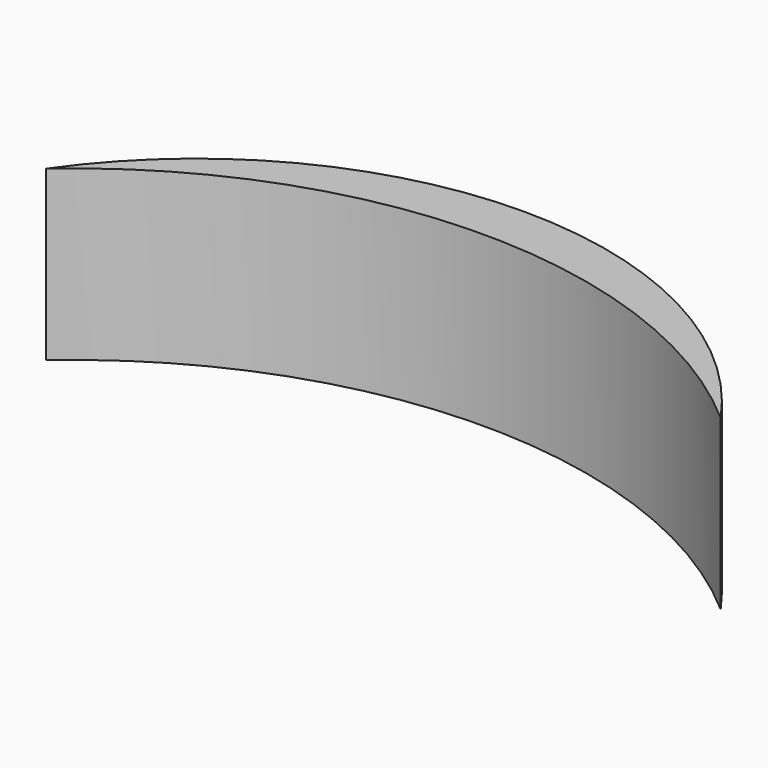
from build123d import *

# Parameters (mm, degrees)
F1_DEPTH = 38.1


with BuildPart() as f1:
    # F0 (on Top) → F1 (new body)
    with BuildSketch(Plane.XY):
        with BuildLine():
            ThreePointArc((-76.491949, 0), (-0.291949, 28.60072), (75.908051, 0))
            ThreePointArc((75.908051, 0), (-0.291949, 39.87425), (-76.491949, 0))
        make_face()
    extrude(amount=F1_DEPTH)


solid = f1.part
